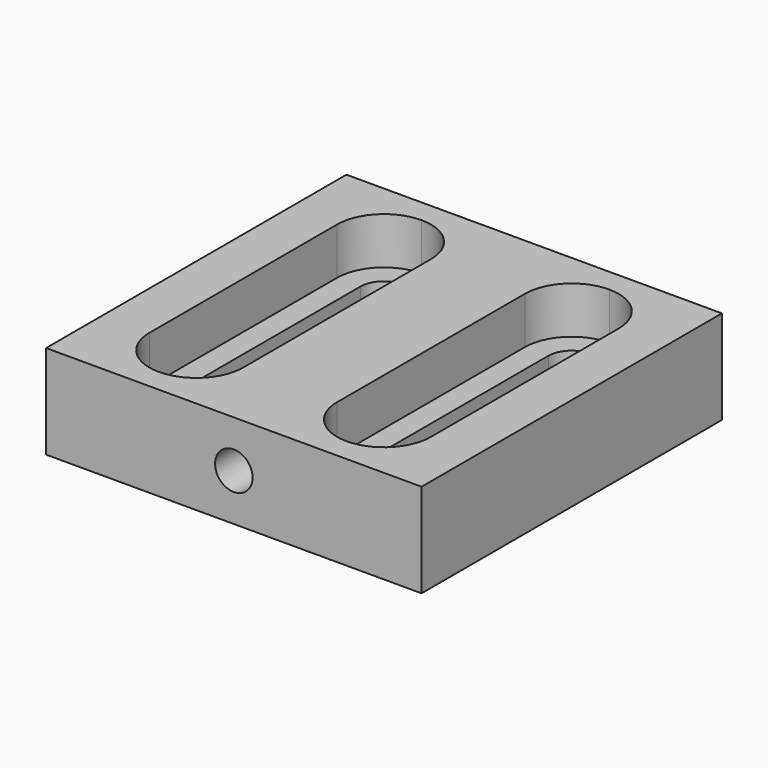
from build123d import *

# Parameters (mm, degrees)
F0_W     = 40
F0_H     = 40
F1_DEPTH = 10
F2_DEPTH = 5
F3_R     = 2
F4_DEPTH = 10


with BuildPart() as f1:
    # F0 (on Top) → F1 (new body)
    with BuildSketch(Plane.XY):
        Rectangle(F0_W, F0_H)
        with BuildLine():
            Line((-15, -12.5), (-15, 12.5))
            ThreePointArc((-15, 12.5), (-13.535534, 16.035534), (-10, 17.5))
            ThreePointArc((-10, 17.5), (-6.464466, 16.035534), (-5, 12.5))
            Line((-5, 12.5), (-5, -12.5))
            ThreePointArc((-5, -12.5), (-6.464466, -16.035534), (-10, -17.5))
            ThreePointArc((-10, -17.5), (-13.535534, -16.035534), (-15, -12.5))
        make_face(mode=Mode.SUBTRACT)
        with BuildLine():
            Line((5, -12.5), (5, 12.5))
            ThreePointArc((5, 12.5), (6.464466, 16.035534), (10, 17.5))
            ThreePointArc((10, 17.5), (13.535534, 16.035534), (15, 12.5))
            Line((15, 12.5), (15, -12.5))
            ThreePointArc((15, -12.5), (13.535534, -16.035534), (10, -17.5))
            ThreePointArc((10, -17.5), (6.464466, -16.035534), (5, -12.5))
        make_face(mode=Mode.SUBTRACT)
        with BuildLine():
            ThreePointArc((-10, 17.5), (-13.535534, 16.035534), (-15, 12.5))
            Line((-15, 12.5), (-15, -12.5))
            ThreePointArc((-15, -12.5), (-13.535534, -16.035534), (-10, -17.5))
            ThreePointArc((-10, -17.5), (-6.464466, -16.035534), (-5, -12.5))
            Line((-5, -12.5), (-5, 12.5))
            ThreePointArc((-5, 12.5), (-6.464466, 16.035534), (-10, 17.5))
        make_face()
        with BuildLine():
            ThreePointArc((-10, 15), (-8.232233, 14.267767), (-7.5, 12.5))
            Line((-7.5, 12.5), (-7.5, -12.5))
            ThreePointArc((-7.5, -12.5), (-8.232233, -14.267767), (-10, -15))
            ThreePointArc((-10, -15), (-11.767767, -14.267767), (-12.5, -12.5))
            Line((-12.5, -12.5), (-12.5, 12.5))
            ThreePointArc((-12.5, 12.5), (-11.767767, 14.267767), (-10, 15))
        make_face(mode=Mode.SUBTRACT)
        with BuildLine():
            ThreePointArc((10, 17.5), (6.464466, 16.035534), (5, 12.5))
            Line((5, 12.5), (5, -12.5))
            ThreePointArc((5, -12.5), (6.464466, -16.035534), (10, -17.5))
            ThreePointArc((10, -17.5), (13.535534, -16.035534), (15, -12.5))
            Line((15, -12.5), (15, 12.5))
            ThreePointArc((15, 12.5), (13.535534, 16.035534), (10, 17.5))
        make_face()
        with BuildLine():
            Line((7.5, -12.5), (7.5, 12.5))
            ThreePointArc((7.5, 12.5), (8.232233, 14.267767), (10, 15))
            ThreePointArc((10, 15), (11.767767, 14.267767), (12.5, 12.5))
            Line((12.5, 12.5), (12.5, -12.5))
            ThreePointArc((12.5, -12.5), (11.767767, -14.267767), (10, -15))
            ThreePointArc((10, -15), (8.232233, -14.267767), (7.5, -12.5))
        make_face(mode=Mode.SUBTRACT)
    extrude(amount=-F1_DEPTH)

    # F0 (on Top) → F2 (cut)
    with BuildSketch(Plane.XY):
        with BuildLine():
            Line((-7.5, -12.5), (-7.5, 12.5))
            ThreePointArc((-7.5, 12.5), (-8.232233, 14.267767), (-10, 15))
            ThreePointArc((-10, 15), (-11.767767, 14.267767), (-12.5, 12.5))
            Line((-12.5, 12.5), (-12.5, -12.5))
            ThreePointArc((-12.5, -12.5), (-11.767767, -14.267767), (-10, -15))
            ThreePointArc((-10, -15), (-8.232233, -14.267767), (-7.5, -12.5))
        make_face()
        with BuildLine():
            ThreePointArc((10, 15), (8.232233, 14.267767), (7.5, 12.5))
            Line((7.5, 12.5), (7.5, -12.5))
            ThreePointArc((7.5, -12.5), (8.232233, -14.267767), (10, -15))
            ThreePointArc((10, -15), (11.767767, -14.267767), (12.5, -12.5))
            Line((12.5, -12.5), (12.5, 12.5))
            ThreePointArc((12.5, 12.5), (11.767767, 14.267767), (10, 15))
        make_face()
        with BuildLine():
            ThreePointArc((10, 17.5), (6.464466, 16.035534), (5, 12.5))
            Line((5, 12.5), (5, -12.5))
            ThreePointArc((5, -12.5), (6.464466, -16.035534), (10, -17.5))
            ThreePointArc((10, -17.5), (13.535534, -16.035534), (15, -12.5))
            Line((15, -12.5), (15, 12.5))
            ThreePointArc((15, 12.5), (13.535534, 16.035534), (10, 17.5))
        make_face()
        with BuildLine():
            Line((7.5, -12.5), (7.5, 12.5))
            ThreePointArc((7.5, 12.5), (8.232233, 14.267767), (10, 15))
            ThreePointArc((10, 15), (11.767767, 14.267767), (12.5, 12.5))
            Line((12.5, 12.5), (12.5, -12.5))
            ThreePointArc((12.5, -12.5), (11.767767, -14.267767), (10, -15))
            ThreePointArc((10, -15), (8.232233, -14.267767), (7.5, -12.5))
        make_face(mode=Mode.SUBTRACT)
        with BuildLine():
            ThreePointArc((-10, 17.5), (-13.535534, 16.035534), (-15, 12.5))
            Line((-15, 12.5), (-15, -12.5))
            ThreePointArc((-15, -12.5), (-13.535534, -16.035534), (-10, -17.5))
            ThreePointArc((-10, -17.5), (-6.464466, -16.035534), (-5, -12.5))
            Line((-5, -12.5), (-5, 12.5))
            ThreePointArc((-5, 12.5), (-6.464466, 16.035534), (-10, 17.5))
        make_face()
        with BuildLine():
            ThreePointArc((-10, 15), (-8.232233, 14.267767), (-7.5, 12.5))
            Line((-7.5, 12.5), (-7.5, -12.5))
            ThreePointArc((-7.5, -12.5), (-8.232233, -14.267767), (-10, -15))
            ThreePointArc((-10, -15), (-11.767767, -14.267767), (-12.5, -12.5))
            Line((-12.5, -12.5), (-12.5, 12.5))
            ThreePointArc((-12.5, 12.5), (-11.767767, 14.267767), (-10, 15))
        make_face(mode=Mode.SUBTRACT)
    extrude(amount=-F2_DEPTH, mode=Mode.SUBTRACT)

    # F3 (on face) → F4 (cut)
    with BuildSketch(Plane.XZ.offset(20)):
        with Locations((0, -5)):
            Circle(F3_R)
    extrude(amount=-F4_DEPTH, mode=Mode.SUBTRACT)


solid = f1.part
